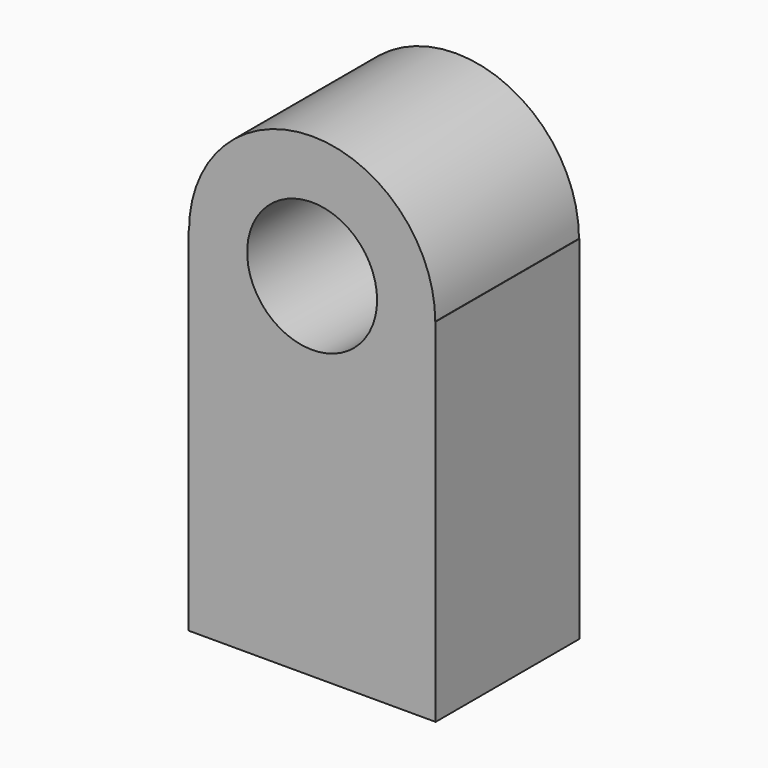
from build123d import *

# Parameters (mm, degrees)
F0_R     = 20.666094
F1_DEPTH = 57.15


with BuildPart() as f1:
    # F0 (on Front) → F1 (new body)
    with BuildSketch(Plane.XZ):
        with BuildLine():
            Line((-39.291471, -56.035541), (39.291471, -56.035541))
            Line((39.291471, -56.035541), (39.291471, 56.035541))
            Line((39.291471, 56.035541), (39.164112, 56.035541))
            ThreePointArc((39.164112, 56.035541), (0, 95.199653), (-39.164112, 56.035541))
            Line((-39.164112, 56.035541), (-39.291471, 56.035541))
            Line((-39.291471, 56.035541), (-39.291471, -56.035541))
        make_face()
        with Locations((0, 56.035541)):
            Circle(F0_R, mode=Mode.SUBTRACT)
    extrude(amount=F1_DEPTH)


solid = f1.part
